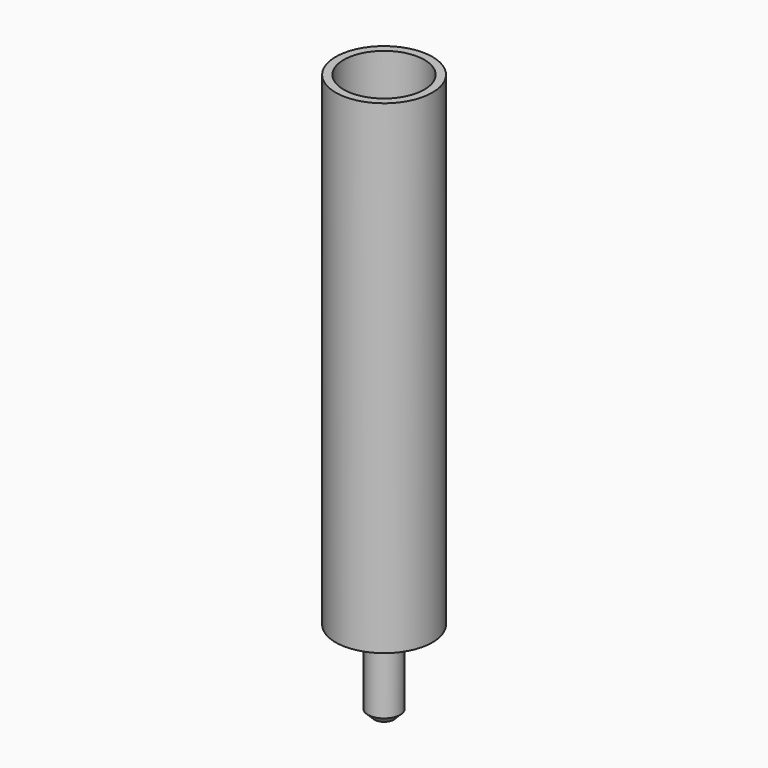
from build123d import *

# Parameters (mm, degrees)
F0_R     = 15
F1_DEPTH = 150
F2_T     = -2.5
F3_R     = 5
F4_DEPTH = 25
F5_SIZE  = 2


with BuildPart() as f1:
    # F0 (on Top) → F1 (new body)
    with BuildSketch(Plane.XY):
        Circle(F0_R)
    extrude(amount=F1_DEPTH)

    # F2
    f2_openings = [f1.faces().sort_by_distance(p)[0] for p in [
        (0, 0, 150),
    ]]
    offset(amount=F2_T, openings=f2_openings)

    # F3 (on Top) → F4 (join)
    with BuildSketch(Plane.XY):
        Circle(F3_R)
    extrude(amount=-F4_DEPTH)

    # F5
    f5_edges = [f1.edges().sort_by_distance(p)[0] for p in [
        (-5, 0, -25),
    ]]
    chamfer(f5_edges, length=F5_SIZE)


solid = f1.part
